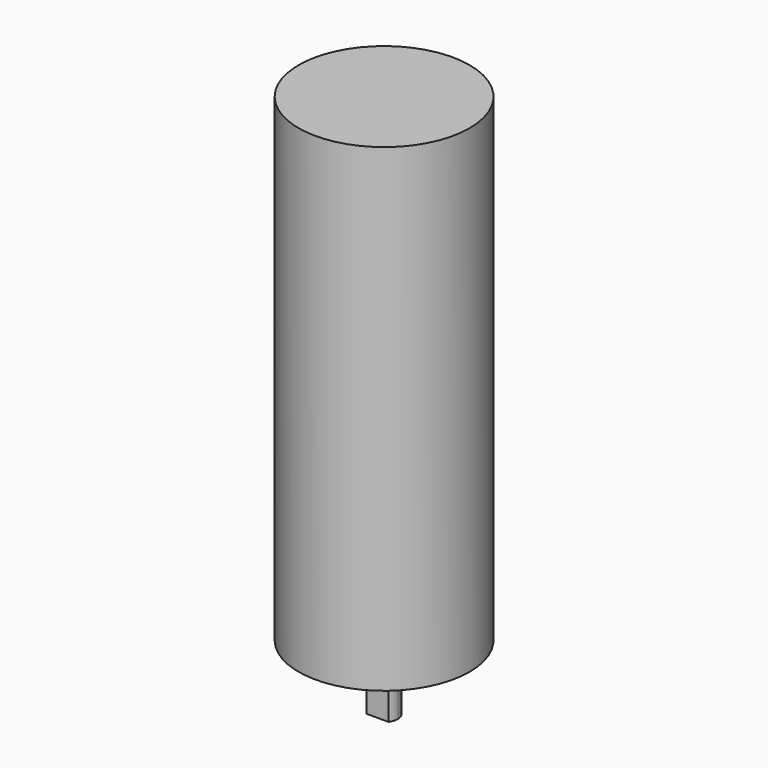
from build123d import *

# Parameters (mm, degrees)
F0_R     = 12.5
F1_DEPTH = 70
F3_DEPTH = 9.5


with BuildPart() as f1:
    # F0 (on Top) → F1 (new body)
    with BuildSketch(Plane.XY):
        Circle(F0_R)
    extrude(amount=F1_DEPTH)

    # F2 (on face) → F3 (join)
    with BuildSketch(Plane(origin=(0, 0, 0), x_dir=(1, 0, 0), z_dir=(0, 0, -1))):
        with BuildLine():
            ThreePointArc((-1.6, 1.2), (-0.632456, -1.897367), (2, 0))
            ThreePointArc((2, 0), (1.897367, 0.632456), (1.6, 1.2))
            Line((1.6, 1.2), (-1.6, 1.2))
        make_face()
    extrude(amount=F3_DEPTH)


solid = f1.part
